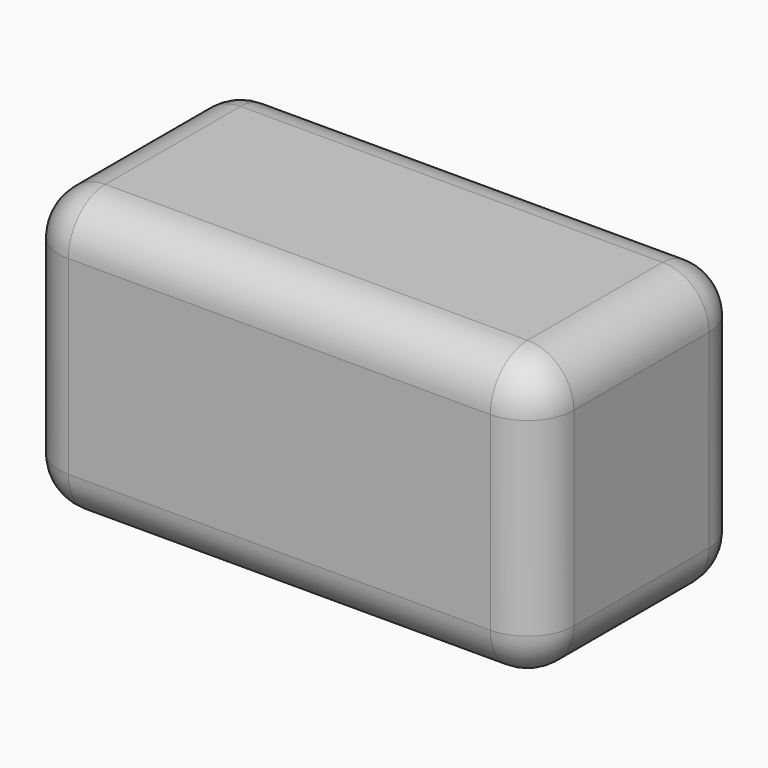
from build123d import *

# Parameters (mm, degrees)
F0_W     = 120
F0_H     = 65
F1_DEPTH = 30
F2_R     = 10
F3_W     = 158.2465842366
F3_H     = 88.3002289823
F4_DEPTH = 60
F5_T     = 1


with BuildPart() as f1:
    # F0 (on Front) → F1 (new body, symmetric)
    with BuildSketch(Plane.XZ):
        with Locations((-0.1071500592, 0.0989875504)):
            Rectangle(F0_W, F0_H)
    extrude(amount=F1_DEPTH, both=True)

    # F2
    f2_edges = [f1.edges().sort_by_distance(p)[0] for p in [
        (-0.10715, -30, -32.401012),
        (59.89285, 0, -32.401012),
        (-0.10715, 30, -32.401012),
        (-60.10715, 0, -32.401012),
        (-0.10715, -30, 32.598988),
        (59.89285, 0, 32.598988),
        (-60.10715, 0, 32.598988),
        (-0.10715, 30, 32.598988),
        (-60.10715, 30, 0.098988),
        (-60.10715, -30, 0.098988),
        (59.89285, -30, 0.098988),
        (59.89285, 30, 0.098988),
    ]]
    fillet(f2_edges, radius=F2_R)

    # F3 (on face) → F4 (cut)
    with BuildSketch(Plane.XZ.offset(30)):
        with Locations((1.5532188118, 44.2491020416)):
            Rectangle(F3_W, F3_H)
    extrude(amount=-F4_DEPTH, mode=Mode.SUBTRACT)

    # F5
    f5_openings = [f1.faces().sort_by_distance(p)[0] for p in [
        (-0.10715, 0, 0.098988),
    ]]
    offset(amount=F5_T, openings=f5_openings)

    # F6: F1 across face


with BuildPart() as f1_1:
    add(f1.part)
    add(f1.part.mirror(Plane(origin=(-0.1071500592, 0, 0.0989875504), x_dir=(1, 0, 0), z_dir=(0, 0, 1))))


solid = f1_1.part
